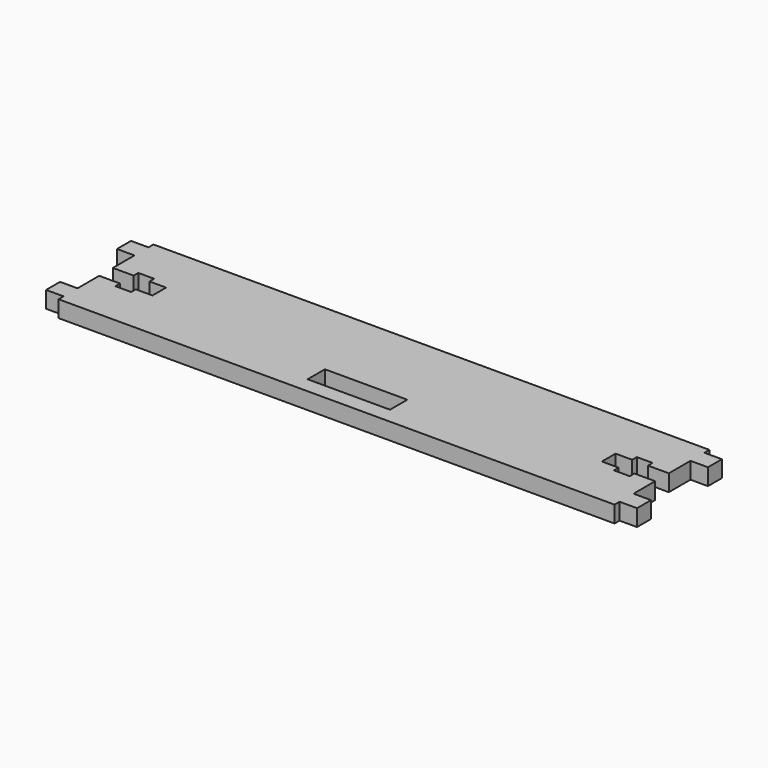
from build123d import *

# Parameters (mm, degrees)
F0_W     = 19.8
F0_H     = 5.2
F1_DEPTH = 4


with BuildPart() as f1:
    # F0 (on Top) → F1 (new body)
    with BuildSketch(Plane.XY):
        Polygon((39.896611, 8.965192), (-93.703389, 8.965192), (-93.703389, 7.465192), (-97.903389, 7.465192), (-97.903389, 3.265192), (-93.703389, 3.265192), (-93.703389, -3.234808), (-88.703389, -3.234808), (-88.703389, -1.834808), (-84.903389, -1.834808), (-84.903389, -3.234808), (-80.903389, -3.234808), (-80.903389, -7.334808), (-84.903389, -7.334808), (-84.903389, -8.734808), (-88.703389, -8.734808), (-88.703389, -7.334808), (-93.703389, -7.334808), (-93.703389, -13.834808), (-97.903389, -13.834808), (-97.903389, -18.034808), (-93.703389, -18.034808), (-93.703389, -19.534808), (39.896611, -19.534808), (39.896611, -18.034808), (44.096611, -18.034808), (44.096611, -13.834808), (39.896611, -13.834808), (39.896611, -7.334808), (34.896611, -7.334808), (34.896611, -8.734808), (31.096611, -8.734808), (31.096611, -7.334808), (27.096611, -7.334808), (27.096611, -3.234808), (31.096611, -3.234808), (31.096611, -1.834808), (34.896611, -1.834808), (34.896611, -3.234808), (39.896611, -3.234808), (39.896611, 3.265192), (44.096611, 3.265192), (44.096611, 7.465192), (39.896611, 7.465192), align=None)
        with Locations((-27.003389, -13.134808)):
            Rectangle(F0_W, F0_H, mode=Mode.SUBTRACT)
    extrude(amount=F1_DEPTH)


solid = f1.part
